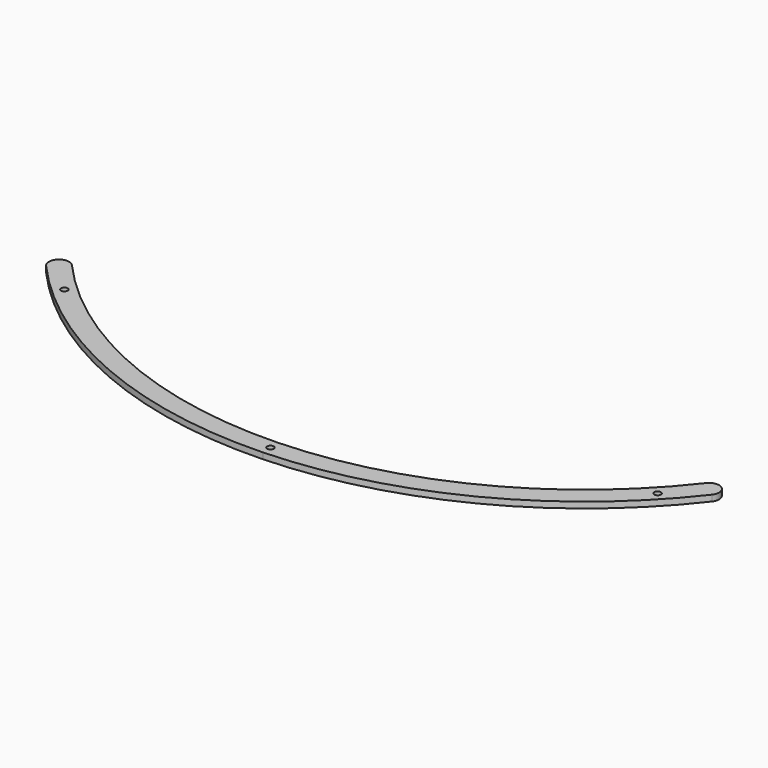
from build123d import *

# Parameters (mm, degrees)
PAD014_DEPTH                        = 3
SKETCH055_R                         = 1.65
POCKET019_DEPTH                     = 364.282338
POCKET019_DEPTH_BACK                = 367.282338
BODY001003005003003_PLACEMENT_ANGLE = 60
CLONE003_PLACEMENT_ANGLE            = 122


with BuildPart() as part:
    # Sketch052 → Pad014 (new body)
    with BuildSketch(Plane.XY):
        with BuildLine():
            ThreePointArc((152.959511, 127.101705), (84.480895, 180.040089), (0, 198.875477))
            Line((0, 198.875477), (0, 208.875477))
            ThreePointArc((160.650731, 133.492724), (88.728824, 189.092995), (0, 208.875477))
            ThreePointArc((152.959511, 127.101705), (160.000631, 126.451604), (160.650731, 133.492724))
        make_face()
    pad014 = extrude(amount=PAD014_DEPTH)

    # Sketch055 → Pocket019 (cut, two sides)
    with BuildSketch(Plane.XY) as pocket019_sk:
        with Locations((143.11, 145.205847)):
            Circle(SKETCH055_R)
        with BuildLine():
            Line((0, 202.225477), (0, 205.525477))
            ThreePointArc((0, 202.225477), (1.65, 203.875477), (0, 205.525477))
        make_face()
    pocket019 = extrude(amount=-POCKET019_DEPTH, mode=Mode.SUBTRACT) + extrude(pocket019_sk.sketch, amount=POCKET019_DEPTH_BACK, mode=Mode.SUBTRACT)

    # Mirrored019: Pad014, Pocket019 across Sketch052 V_Axis
    add(pad014.mirror(Plane(origin=(0, 0, 0), x_dir=(0, 0, 1), z_dir=(1, 0, 0))))
    add(pocket019.mirror(Plane(origin=(0, 0, 0), x_dir=(0, 0, 1), z_dir=(1, 0, 0))), mode=Mode.SUBTRACT)


with BuildPart() as part_1:
    # Body001003005003003 placement: moved
    add(part.part.rotate(Axis((0, 0, 0), (0, 0, 1)), BODY001003005003003_PLACEMENT_ANGLE))


with BuildPart() as part_2:
    # Clone003 placement: moved
    add(part_1.part.moved(Location((1302, 699, 0))).rotate(Axis((1302, 699, 0), (0, 0, 1)), CLONE003_PLACEMENT_ANGLE))


solid = part_2.part
